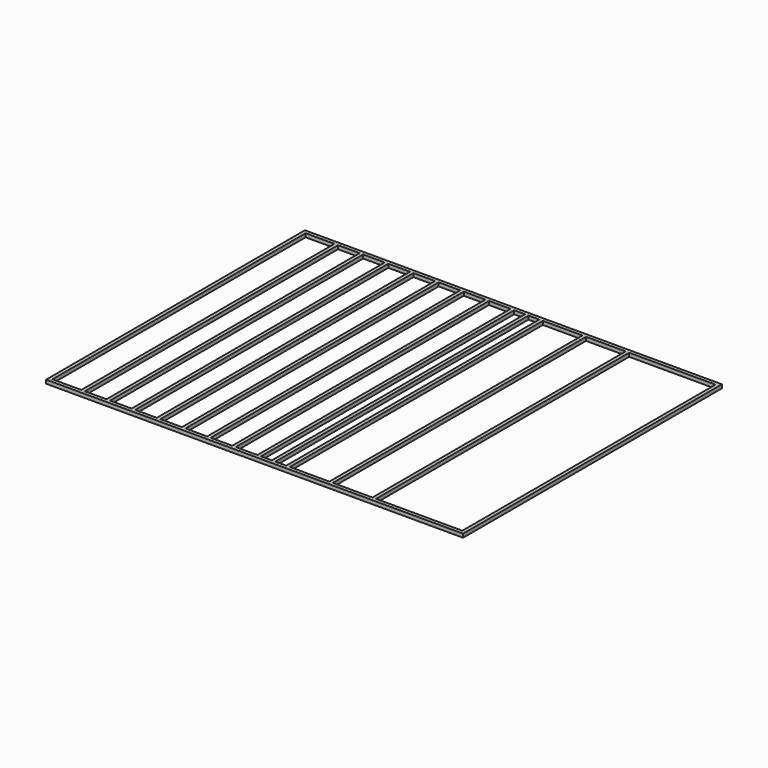
from build123d import *

# Parameters (mm, degrees)
F1_W     = 116
F1_H     = 90
F2_DEPTH = 1
F4_W     = 116
F4_H     = 58.6666666667
F5_DEPTH = 3
F3_W     = 8
F3_H     = 88
F3_W_2   = 6
F3_W_3   = 3
F3_W_4   = 11
F3_W_5   = 24
F6_DEPTH = 1


with BuildPart() as f2:
    # F1 (on Top) → F2 (new body)
    with BuildSketch(Plane.XY):
        Rectangle(F1_W, F1_H)
    extrude(amount=F2_DEPTH)

    # F4 (on face) → F5 (cut)
    with BuildSketch(Plane.XY.offset(1)):
        Rectangle(F4_W, F4_H)
    extrude(amount=F5_DEPTH, mode=Mode.SUBTRACT)

    # F3 (on face) → F6 (cut)
    with BuildSketch(Plane.XY.offset(1)):
        with Locations((-53, 0)):
            Rectangle(F3_W, F3_H)
        with Locations((-45, 0)):
            Rectangle(F3_W_2, F3_H)
        with Locations((-38, 0)):
            Rectangle(F3_W_2, F3_H)
        with Locations((-31, 0)):
            Rectangle(F3_W_2, F3_H)
        with Locations((-24, 0)):
            Rectangle(F3_W_2, F3_H)
        with Locations((-17, 0)):
            Rectangle(F3_W_2, F3_H)
        with Locations((-10, 0)):
            Rectangle(F3_W_2, F3_H)
        with Locations((-3, 0)):
            Rectangle(F3_W_2, F3_H)
        with Locations((2.5, 0)):
            Rectangle(F3_W_3, F3_H)
        with Locations((6.5, 0)):
            Rectangle(F3_W_3, F3_H)
        with Locations((14.5, 0)):
            Rectangle(F3_W_4, F3_H)
        with Locations((26.5, 0)):
            Rectangle(F3_W_4, F3_H)
        with Locations((45, 0)):
            Rectangle(F3_W_5, F3_H)
    extrude(amount=-F6_DEPTH, mode=Mode.SUBTRACT)


solid = f2.part
